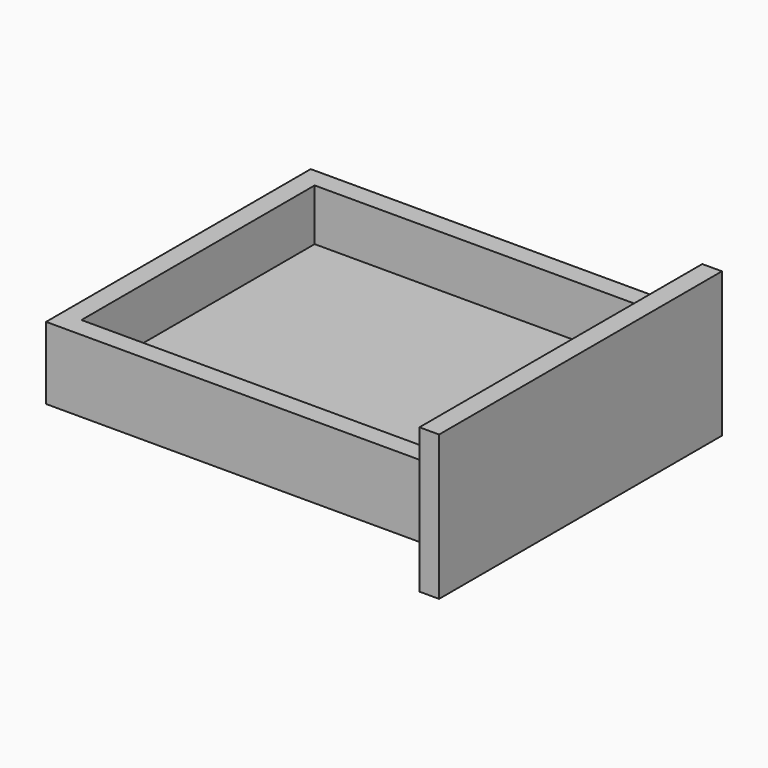
from build123d import *

# Parameters (mm, degrees)
F0_W     = 370
F0_H     = 320
F1_DEPTH = 70
F2_W     = 332
F2_H     = 282
F3_DEPTH = 50
F4_W     = 342
F4_H     = 140
F5_DEPTH = 19


with BuildPart() as f1:
    # F0 (on Top) → F1 (new body)
    with BuildSketch(Plane.XY):
        Rectangle(F0_W, F0_H)
    extrude(amount=F1_DEPTH)

    # F2 (on face) → F3 (cut)
    with BuildSketch(Plane.XY.offset(70)):
        Rectangle(F2_W, F2_H)
    extrude(amount=-F3_DEPTH, mode=Mode.SUBTRACT)

    # F4 (on face) → F5 (join)
    with BuildSketch(Plane.YZ.offset(185)):
        with Locations((0, 35)):
            Rectangle(F4_W, F4_H)
    extrude(amount=F5_DEPTH)


solid = f1.part
